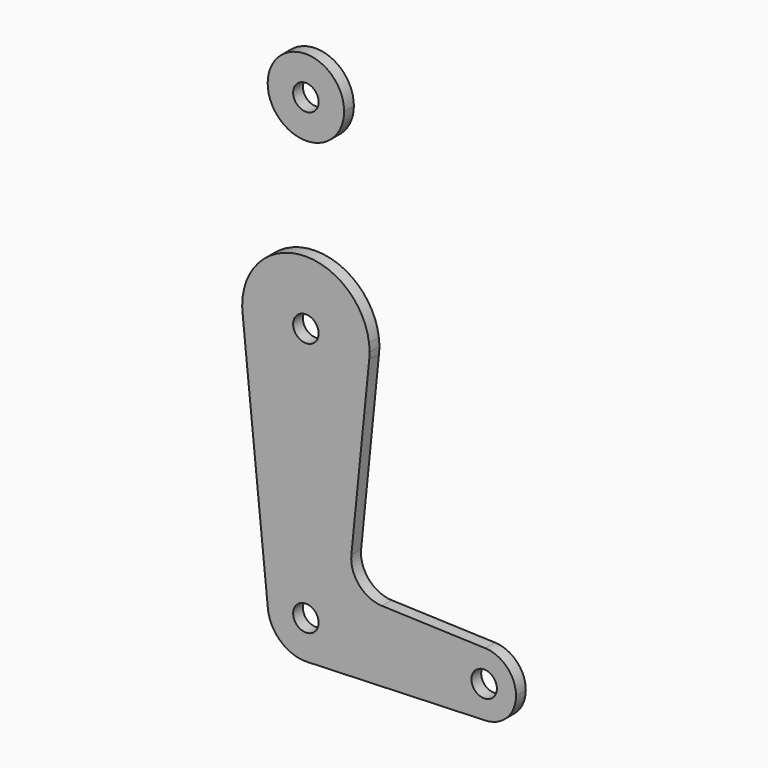
from build123d import *

# Parameters (mm, degrees)
F0_R     = 3.175
F1_DEPTH = 3.048


with BuildPart() as f1:
    # F0 (on Front) → F1 (new body)
    with BuildSketch(Plane.XZ):
        with BuildLine():
            ThreePointArc((-47.884236, 70.06814), (-39.030426, 59.371211), (-28.908943, 68.877515))
            ThreePointArc((-28.908943, 68.877515), (-37.83746, 78.38382), (-47.884236, 70.06814))
        make_face()
        with Locations((-38.433943, 68.877515)):
            Circle(F0_R, mode=Mode.SUBTRACT)
        with BuildLine():
            ThreePointArc((-22.683455, 20.06189), (-38.433943, 33.952515), (-54.184431, 20.06189))
            ThreePointArc((-54.184431, 20.06189), (-54.307687, 18.277221), (-54.229369, 16.490015))
            ThreePointArc((-54.229369, 16.490015), (-38.433943, 2.202515), (-22.638517, 16.490015))
            ThreePointArc((-22.638517, 16.490015), (-22.578849, 17.282769), (-22.558943, 18.077515))
            ThreePointArc((-22.558943, 18.077515), (-22.590101, 19.071654), (-22.683455, 20.06189))
        make_face()
        with Locations((-38.433943, 18.077515)):
            Circle(F0_R, mode=Mode.SUBTRACT)
        with BuildLine():
            ThreePointArc((-22.638517, 16.490015), (-38.433943, 2.202515), (-54.229369, 16.490015))
            Line((-54.229369, 16.490015), (-47.911198, -46.374985))
            ThreePointArc((-47.911198, -46.374985), (-38.910791, -35.909428), (-28.908943, -45.422485))
            ThreePointArc((-28.908943, -45.422485), (-31.579535, -52.036312), (-38.093764, -54.941408))
            Line((-38.093764, -54.941408), (6.299539, -53.354921))
            ThreePointArc((6.299539, -53.354921), (-1.921443, -45.423023), (6.298462, -37.49001))
            Line((6.298462, -37.49001), (-19.465615, -36.572779))
            ThreePointArc((-19.465615, -36.572779), (-25.172739, -33.855022), (-27.093107, -27.832592))
            Line((-27.093107, -27.832592), (-22.638517, 16.490015))
        make_face()
        with BuildLine():
            ThreePointArc((-28.908943, -45.422485), (-38.910791, -35.909428), (-47.911198, -46.374985))
            ThreePointArc((-47.911198, -46.374985), (-44.696326, -52.599404), (-38.093764, -54.941408))
            ThreePointArc((-38.093764, -54.941408), (-31.579535, -52.036312), (-28.908943, -45.422485))
        make_face()
        with Locations((-38.433943, -45.422485)):
            Circle(F0_R, mode=Mode.SUBTRACT)
        with BuildLine():
            ThreePointArc((6.298462, -37.49001), (-1.921443, -45.423023), (6.299539, -53.354921))
            ThreePointArc((6.299539, -53.354921), (11.728064, -50.934007), (13.953557, -45.422485))
            ThreePointArc((13.953557, -45.422485), (11.72769, -39.910574), (6.298462, -37.49001))
        make_face()
        with Locations((6.016057, -45.422485)):
            Circle(F0_R, mode=Mode.SUBTRACT)
    extrude(amount=F1_DEPTH)


solid = f1.part
